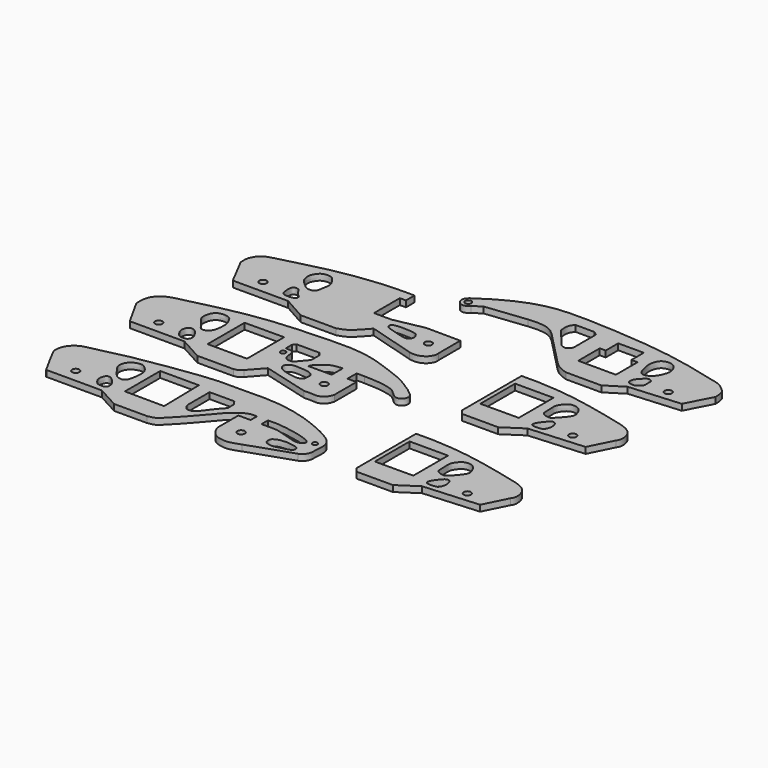
from build123d import *

# Parameters (mm, degrees)
F0_R     = 0.9999424219
F0_R_2   = 1.1619067798
F1_DEPTH = 1.9812
F0_R_3   = 0.8308060467
F0_R_4   = 0.8147235178


with BuildPart() as f1:
    # F0 (on Top) → F1 (new body)
    with BuildSketch(Plane.XY):
        with BuildLine():
            add(Edge.make_bspline(
                [(92.6373976592, 109.385073185), (93.8506829882, 109.514260154), (97.8617190625, 109.7296111324), (100.8245201096, 108.349381474), (102.2005877959, 106.9810635197), (102.7207896113, 106.4595282078)],
                knots=[0, 0, 0, 0, 0.3963056651, 0.7202468719, 1, 1, 1, 1], degree=3))
            Line((102.7207896113, 106.4595282078), (113.6069446802, 95.2593460679))
            add(Edge.make_bspline(
                [(113.6069446802, 95.2593460679), (114.1959506239, 94.7732180593), (115.4335805947, 93.7517570714), (117.1883190486, 93.1612885496), (118.1079521775, 92.851832509)],
                knots=[0, 0, 0, 0, 0.4759144151, 1, 1, 1, 1], degree=3))
            Line((118.1079521775, 92.851832509), (129.517480731, 92.851832509))
            Line((129.517480731, 92.851832509), (135.1699084044, 96.4107662439))
            Line((135.1699084044, 96.4107662439), (151.6038179398, 97.6668670774))
            Line((151.6038179398, 97.6668670774), (155.8954715729, 105.9361547232))
            add(Edge.make_bspline(
                [(74.0399584174, 109.2857420444), (76.6683574206, 111.1142288792), (82.4469864956, 114.7487459632), (92.6384825976, 118.7049376793), (105.3532035624, 118.7382284311), (118.8245314754, 117.9535814722), (129.5683396456, 116.8825044245), (140.4179268185, 114.9478847046), (148.0493221793, 112.7449907537), (152.4759047557, 112.1393790191), (155.2184820052, 109.42390682), (155.6252513119, 108.6856731052), (155.9344983135, 107.034178374), (155.8954715729, 105.9361547232)],
                knots=[0, 0, 0, 0, 0.1062070835, 0.216706254, 0.3370166019, 0.4610864784, 0.5727154102, 0.684951725, 0.7796020002, 0.8509478044, 0.9133513637, 0.9441649832, 1, 1, 1, 1], degree=3))
            add(Edge.make_bspline(
                [(76.8661722541, 106.1455011368), (76.4767540931, 105.6949295799), (75.5693540411, 105.173429691), (74.0305290688, 105.1712269739), (72.7772969879, 106.8209295721), (72.9478700861, 108.323444005), (73.6688638817, 108.9617207668), (74.0399584174, 109.2857420444)],
                knots=[0, 0, 0, 0, 0.2053323332, 0.3957577644, 0.6174964044, 0.8072491366, 1, 1, 1, 1], degree=3))
            Line((76.8661722541, 106.1455011368), (79.5877128839, 107.9249680042))
            Line((79.5877128839, 107.9249680042), (92.6373976592, 109.385073185))
        make_face()
        with Locations((75.0501081347, 107.3810607195)):
            Circle(F0_R, mode=Mode.SUBTRACT)
        with BuildLine():
            Line((111.1994311213, 113.6820688844), (111.1994311213, 104.9940809608))
            ThreePointArc((111.1994311213, 104.9940809608), (110.820249535, 103.8740130699), (109.8386570811, 103.2146140933))
            ThreePointArc((109.8386570811, 103.2146140933), (108.6848353024, 103.3656199395), (107.7451705933, 104.0520146489))
            Line((107.7451705933, 104.0520146489), (102.8254628181, 110.0184619427))
            add(Edge.make_bspline(
                [(102.8254628181, 110.0184619427), (102.7184035469, 110.9860781754), (102.5180994248, 112.7964540318), (103.4420811535, 113.9721593505), (103.8722097874, 114.51946944)],
                knots=[0, 0, 0, 0, 0.5344836153, 1, 1, 1, 1], degree=3))
            Line((103.8722097874, 114.51946944), (109.9433377385, 114.51946944))
            Line((109.9433377385, 114.51946944), (111.1994311213, 113.6820688844))
        make_face(mode=Mode.SUBTRACT)
        with BuildLine():
            add(Edge.make_bspline(
                [(133.808106184, 100.1581847668), (134.0128906608, 100.6970651868), (134.8805983156, 101.6370866874), (135.8978610306, 102.7791740726), (136.7693236063, 103.1761457326), (138.1789696698, 102.5702949466), (137.8037841436, 100.8929058721), (138.1260908221, 99.6397132953), (136.9854410759, 98.8062883978), (136.3780532933, 97.9849215375), (134.6697389092, 98.0480097737), (133.9881418881, 98.3608182851), (133.640328873, 98.9168698557), (133.6396088811, 99.7147922852), (133.808106184, 100.1581847668)],
                knots=[0, 0, 0, 0, 0.1039821478, 0.1986029451, 0.2704362864, 0.3539662427, 0.448945845, 0.5329964625, 0.618081459, 0.6948567241, 0.7910709939, 0.8562842182, 0.9144431662, 1, 1, 1, 1], degree=3))
        make_face(mode=Mode.SUBTRACT)
        with Locations((144.9514329433, 100.5327180028)):
            Circle(F0_R_2, mode=Mode.SUBTRACT)
        Polygon((128.7643164396, 99.6832028031), (116.6050955653, 99.718131125), (116.6050955653, 108.3810031414), (118.5268089175, 108.3810031414), (118.5268089175, 113.4110614657), (126.7727166414, 113.4110614657), (126.7727166414, 108.4159389138), (128.7643164396, 108.4159389138), align=None, mode=Mode.SUBTRACT)
        with BuildLine():
            add(Edge.make_bspline(
                [(132.1343481541, 107.0352382958), (131.9006111479, 107.9938234822), (131.5439128032, 109.7349636351), (132.7146532193, 113.1782412007), (136.5642868648, 113.4330070715), (138.1183785199, 111.1779164524), (138.7230959722, 109.1735167011), (137.2964350753, 105.2994075387), (134.7664086175, 103.8028700609), (132.8774140225, 104.2212893341), (132.3671760138, 106.0803816346), (132.1343481541, 107.0352382958)],
                knots=[0, 0, 0, 0, 0.1133317895, 0.2334654924, 0.3539655525, 0.4599996683, 0.5567006552, 0.6909876329, 0.8033693505, 0.8871090272, 1, 1, 1, 1], degree=3))
        make_face(mode=Mode.SUBTRACT)
    extrude(amount=F1_DEPTH)


with BuildPart() as f1b:
    # F0 (on Top) → F1, piece 2 (new body)
    with BuildSketch(Plane.XY):
        with BuildLine():
            Line((115.9332022071, 84.3491256237), (110.6471419334, 84.3491256237))
            Line((110.6471419334, 84.3491256237), (110.6471419334, 60.3263154626))
            Line((110.6471419334, 60.3263154626), (111.9032353163, 58.8608719409))
            Line((111.9032353163, 58.8608719409), (123.5221102834, 58.8608719409))
            Line((123.5221102834, 58.8608719409), (129.6979039907, 62.9431754351))
            Line((129.6979039907, 62.9431754351), (147.387906909, 64.1992762685))
            Line((147.387906909, 64.1992762685), (151.1562019587, 71.7358440161))
            add(Edge.make_bspline(
                [(147.2832411528, 79.0630578995), (148.0472611122, 78.7700690704), (149.5150612319, 78.207192364), (151.0911580527, 76.7481484904), (151.5160459475, 75.3785381543), (151.8333980856, 74.1578228561), (151.7958935023, 72.7364037265), (151.3636028373, 72.0602456205), (151.1562019587, 71.7358440161)],
                knots=[0, 0, 0, 0, 0.2065230707, 0.3967626554, 0.5527347725, 0.7017188803, 0.8568931246, 1, 1, 1, 1], degree=3))
            Line((147.2832411528, 79.0630578995), (142.7298933268, 80.2144780755))
            Line((142.7298933268, 80.2144780755), (138.4905725718, 81.2088921666))
            Line((138.4905725718, 81.2088921666), (133.6231976748, 82.2556316853))
            Line((133.6231976748, 82.2556316853), (128.0754506588, 83.2500457764))
            Line((128.0754506588, 83.2500457764), (122.580036521, 83.9304253459))
            Line((122.580036521, 83.9304253459), (115.9332022071, 84.3491256237))
        make_face()
        Polygon((124.3595033884, 66.0834163427), (112.0079085231, 66.031076014), (112.0079085231, 80.0574719906), (124.3595033884, 80.0574719906), align=None, mode=Mode.SUBTRACT)
        with BuildLine():
            add(Edge.make_bspline(
                [(129.7235488892, 67.0060813427), (130.0929706254, 67.6167991223), (131.3052300777, 69.0474459876), (131.9173025239, 69.6998177423), (132.9954538238, 69.9036122462), (133.9110600903, 68.835580842), (133.9524661815, 66.3804179026), (133.0974083166, 65.1866451783), (132.5332006512, 64.917259841), (129.9159704936, 64.7024081812), (129.1061553171, 65.4047708277), (129.3499357623, 66.1384751592), (129.4925063981, 66.6241282974), (129.7235488892, 67.0060813427)],
                knots=[0, 0, 0, 0, 0.1288741641, 0.2066233079, 0.2822192242, 0.3708998756, 0.4959652344, 0.588348971, 0.6521526635, 0.7805782187, 0.8559871733, 0.9193999568, 1, 1, 1, 1], degree=3))
        make_face(mode=Mode.SUBTRACT)
        with BuildLine():
            add(Edge.make_bspline(
                [(127.4350136518, 76.2044042349), (127.457103342, 76.8263236062), (127.6478217817, 77.5417924341), (128.5164687457, 78.7994298023), (129.5191049794, 79.8216138606), (131.3403589567, 80.18368758), (133.2784706602, 79.3729666656), (134.0921848248, 77.6867822929), (134.6296777537, 76.2866230878), (134.1620552115, 74.6745813245), (131.1985747815, 71.4513572793), (130.5576161356, 70.9578195535), (128.7874926235, 71.0539206725), (127.5461998859, 72.0370803246), (127.609400901, 72.8602951793), (127.400840538, 75.2422847417), (127.4350136518, 76.2044042349)],
                knots=[0, 0, 0, 0, 0.0647059081, 0.1300898539, 0.1949074201, 0.2671575799, 0.3439628437, 0.4177615903, 0.4819979271, 0.552703419, 0.6658558443, 0.7157128788, 0.785733577, 0.8508674868, 0.8998988963, 1, 1, 1, 1], degree=3))
        make_face(mode=Mode.SUBTRACT)
        with Locations((141.0027593374, 67.0254826546)):
            Circle(F0_R_2, mode=Mode.SUBTRACT)
    extrude(amount=F1_DEPTH)


with BuildPart() as f1c:
    # F0 (on Top) → F1, piece 3 (new body)
    with BuildSketch(Plane.XY):
        with BuildLine():
            Line((114.8867885102, 43.1886227514), (109.6007282366, 43.1886227514))
            Line((109.6007282366, 43.1886227514), (109.6007282366, 19.1658125903))
            Line((109.6007282366, 19.1658125903), (110.8568216194, 17.7003690686))
            Line((110.8568216194, 17.7003690686), (122.4756965865, 17.7003690686))
            Line((122.4756965865, 17.7003690686), (128.6514902939, 21.7826725628))
            Line((128.6514902939, 21.7826725628), (146.3414932121, 23.0387733962))
            Line((146.3414932121, 23.0387733962), (150.1097882618, 30.5753411438))
            add(Edge.make_bspline(
                [(146.2368274559, 37.9025550272), (147.0008474153, 37.6095661981), (148.4686475351, 37.0466894917), (150.0447443559, 35.5876456181), (150.4696322507, 34.218035282), (150.7869843888, 32.9973199838), (150.7494798054, 31.5759008542), (150.3171891405, 30.8997427482), (150.1097882618, 30.5753411438)],
                knots=[0, 0, 0, 0, 0.2065230707, 0.3967626554, 0.5527347725, 0.7017188803, 0.8568931246, 1, 1, 1, 1], degree=3))
            Line((146.2368274559, 37.9025550272), (141.6834796299, 39.0539752032))
            Line((141.6834796299, 39.0539752032), (137.4441588749, 40.0483892943))
            Line((137.4441588749, 40.0483892943), (132.5767839779, 41.095128813))
            Line((132.5767839779, 41.095128813), (127.029036962, 42.0895429041))
            Line((127.029036962, 42.0895429041), (121.5336228241, 42.7699224736))
            Line((121.5336228241, 42.7699224736), (114.8867885102, 43.1886227514))
        make_face()
        Polygon((123.3130896916, 24.9229134704), (110.9614948262, 24.8705731417), (110.9614948262, 38.8969691183), (123.3130896916, 38.8969691183), align=None, mode=Mode.SUBTRACT)
        with BuildLine():
            add(Edge.make_bspline(
                [(128.6771351923, 25.8455784704), (129.0465569285, 26.45629625), (130.2588163809, 27.8869431153), (130.8708888271, 28.53931487), (131.9490401269, 28.7431093739), (132.8646463935, 27.6750779697), (132.9060524846, 25.2199150303), (132.0509946198, 24.0261423061), (131.4867869543, 23.7567569687), (128.8695567968, 23.5419053089), (128.0597416202, 24.2442679554), (128.3035220654, 24.9779722869), (128.4460927013, 25.4636254251), (128.6771351923, 25.8455784704)],
                knots=[0, 0, 0, 0, 0.1288741641, 0.2066233079, 0.2822192242, 0.3708998756, 0.4959652344, 0.588348971, 0.6521526635, 0.7805782187, 0.8559871733, 0.9193999568, 1, 1, 1, 1], degree=3))
        make_face(mode=Mode.SUBTRACT)
        with BuildLine():
            add(Edge.make_bspline(
                [(126.388599955, 35.0439013626), (126.4106896451, 35.6658207339), (126.6014080849, 36.3812895618), (127.4700550489, 37.63892693), (128.4726912826, 38.6611109883), (130.2939452599, 39.0231847077), (132.2320569634, 38.2124637933), (133.045771128, 36.5262794206), (133.5832640569, 35.1261202155), (133.1156415147, 33.5140784522), (130.1521610846, 30.290854407), (129.5112024388, 29.7973166812), (127.7410789266, 29.8934178002), (126.499786189, 30.8765774523), (126.5629872041, 31.699792307), (126.3544268412, 34.0817818694), (126.388599955, 35.0439013626)],
                knots=[0, 0, 0, 0, 0.0647059081, 0.1300898539, 0.1949074201, 0.2671575799, 0.3439628437, 0.4177615903, 0.4819979271, 0.552703419, 0.6658558443, 0.7157128788, 0.785733577, 0.8508674868, 0.8998988963, 1, 1, 1, 1], degree=3))
        make_face(mode=Mode.SUBTRACT)
        with Locations((139.9563456406, 25.8649797823)):
            Circle(F0_R_2, mode=Mode.SUBTRACT)
    extrude(amount=F1_DEPTH)


with BuildPart() as f1d:
    # F0 (on Top) → F1, piece 4 (new body)
    with BuildSketch(Plane.XY):
        with BuildLine():
            add(Edge.make_bspline(
                [(10.2511877194, 54.7010786831), (10.1885472058, 55.6078085486), (10.0634063257, 57.4192396296), (11.0315522121, 60.0980514276), (13.7110567336, 62.5748787848), (20.9450027685, 64.1206470862), (36.0777182281, 67.8237382912), (49.9389217027, 69.0241485853), (60.1127318925, 69.4050048813), (67.9203797094, 69.5966764883), (75.253284317, 68.6136236522), (80.8091623763, 66.4553141295), (86.536928564, 64.6102772662), (91.639480518, 61.6223567758), (94.1730994685, 59.7448464181), (95.4209880099, 58.5264552227), (95.7785835739, 57.3926300647), (95.2858836773, 56.0027292729), (93.5103038001, 55.062094773), (91.8658313439, 56.1781297121), (90.2242519305, 57.9238924502), (88.2894333102, 58.6835115354), (84.5033990987, 59.371056522), (81.5252229304, 59.4684180035), (79.9555182457, 59.5197342336)],
                knots=[0, 0, 0, 0, 0.0353539764, 0.0706288545, 0.1094301878, 0.1667522482, 0.2525432063, 0.3341101081, 0.4021617404, 0.4621480407, 0.5201018122, 0.5724641965, 0.6255654328, 0.6779686741, 0.7159984526, 0.7434137776, 0.7657516418, 0.7908523817, 0.8190853741, 0.8481186673, 0.8811775238, 0.9117718972, 0.9534976917, 1, 1, 1, 1], degree=3))
            Line((10.2511877194, 54.7010786831), (15.0698432699, 46.0607334971))
            Line((15.0698432699, 46.0607334971), (32.6828584075, 46.0607334971))
            Line((32.6828584075, 46.0607334971), (40.0770008564, 41.9898033142))
            Line((40.0770008564, 41.9898033142), (51.7082363367, 41.9898033142))
            add(Edge.make_bspline(
                [(51.7082363367, 41.9898033142), (52.1716499561, 42.0863231902), (53.0954492376, 42.2787322786), (53.7776044589, 42.917612818), (54.1175641119, 43.2360060513)],
                knots=[0, 0, 0, 0, 0.501638861, 1, 1, 1, 1], degree=3))
            Line((54.1175641119, 43.2360060513), (58.1884942949, 47.8054173291))
            Line((58.1884942949, 47.8054173291), (72.976782918, 43.8175685704))
            add(Edge.make_bspline(
                [(72.976782918, 43.8175685704), (73.9205941873, 43.8483268026), (75.6478431466, 43.9046167902), (77.5292542058, 43.5206693465), (79.7490964557, 45.0631650853), (80.114905625, 46.3610402781), (80.2878439426, 46.9746179879)],
                knots=[0, 0, 0, 0, 0.2753526344, 0.5039170082, 0.7654740089, 1, 1, 1, 1], degree=3))
            Line((80.2878439426, 46.9746179879), (80.2878439426, 55.8075346053))
            Line((80.2878439426, 55.8075346053), (77.3800313473, 55.8075346053))
            Line((77.3800313473, 55.8075346053), (77.3800313473, 59.5197342336))
            Line((77.3800313473, 59.5197342336), (79.9555182457, 59.5197342336))
        make_face()
        with Locations((21.2177801877, 50.0485859811)):
            Circle(F0_R_2, mode=Mode.SUBTRACT)
        with BuildLine():
            add(Edge.make_bspline(
                [(28.1900241971, 50.3396131098), (28.1418874287, 50.7897316516), (28.2458661274, 51.6937456673), (28.779500662, 52.4559466692), (29.5855359347, 52.8897329053), (30.9008219465, 52.5518036694), (32.1690783288, 50.9021781984), (32.8302761291, 49.7973346054), (33.0598721504, 48.7285025511), (32.5274265478, 47.5259902771), (31.6513679828, 47.412421202), (30.3253971178, 47.3365040526), (29.5152805601, 47.7526427258), (28.5595300238, 49.0503907138), (28.2384678908, 49.886624563), (28.1900241971, 50.3396131098)],
                knots=[0, 0, 0, 0, 0.0816560918, 0.1481749783, 0.2119149444, 0.2902478703, 0.3915044788, 0.4720308714, 0.5441877262, 0.6197445831, 0.6838877396, 0.7637720049, 0.8300336322, 0.91782326, 1, 1, 1, 1], degree=3))
        make_face(mode=Mode.SUBTRACT)
        Polygon((38.1373949349, 48.5392473638), (38.1373949349, 63.4551420808), (50.8353114128, 63.5105893016), (50.8353114128, 48.5392473638), align=None, mode=Mode.SUBTRACT)
        with BuildLine():
            add(Edge.make_bspline(
                [(31.1046149582, 54.5879974961), (30.5831213902, 55.1990708798), (29.3370128421, 57.0832453489), (27.9180877404, 58.4674051854), (27.7899100127, 60.2383086032), (28.3354189141, 62.4137273852), (29.8617236372, 63.5855549472), (31.6357290698, 63.7701586802), (33.4843642625, 63.3975390788), (34.4067779471, 61.7341209163), (35.093684003, 60.1317637199), (35.0734687261, 57.847540653), (34.6775607267, 55.5435820327), (33.7983579507, 54.3216251415), (33.007463586, 54.0263318415), (31.9115919028, 53.8079788004), (31.4182144586, 54.2205292863), (31.1046149582, 54.5879974961)],
                knots=[0, 0, 0, 0, 0.0883837179, 0.1597210699, 0.2247531518, 0.2995434117, 0.3674408088, 0.4345087108, 0.5016569124, 0.5691498934, 0.6359885738, 0.7124984384, 0.7906869586, 0.8503911008, 0.8962818214, 0.9468505625, 1, 1, 1, 1], degree=3))
        make_face(mode=Mode.SUBTRACT)
        with BuildLine():
            add(Edge.make_bspline(
                [(60.3904537857, 51.4174178243), (60.4647976502, 51.7866614879), (61.0224718758, 52.4917609831), (62.3480923871, 53.1251880767), (64.7459573351, 52.9363219008), (67.2846012408, 52.8459225197), (69.1021157379, 51.7122160145), (69.0006810838, 50.5922695864), (68.9733664145, 48.8880729024), (67.5519785183, 48.0990804085), (64.7612641643, 48.5396852955), (61.9355096386, 49.1087204829), (60.5648786819, 50.1878528387), (60.3174013214, 51.0545881583), (60.3904537857, 51.4174178243)],
                knots=[0, 0, 0, 0, 0.0678416206, 0.1419583412, 0.238570619, 0.3408584957, 0.425941456, 0.4892600322, 0.5676055914, 0.6402476996, 0.7455859407, 0.8533504796, 0.9333368316, 1, 1, 1, 1], degree=3))
        make_face(mode=Mode.SUBTRACT)
        with Locations((55.6960888207, 57.0273287594)):
            Circle(F0_R_3, mode=Mode.SUBTRACT)
        with BuildLine():
            Line((56.3802532852, 59.019189328), (54.938569665, 59.019189328))
            Line((54.938569665, 59.019189328), (54.938569665, 61.4589639008))
            Line((54.938569665, 61.4589639008), (55.6594133377, 62.4570511281))
            Line((55.6594133377, 62.4570511281), (62.9787370563, 62.4570511281))
            Line((62.9787370563, 62.4570511281), (63.9213770628, 61.5144111216))
            Line((63.9213770628, 61.5144111216), (63.9213770628, 58.0765493214))
            Line((63.9213770628, 58.0765493214), (61.2598024309, 54.9159310758))
            add(Edge.make_bspline(
                [(56.3802532852, 59.019189328), (56.6983108257, 58.9046441311), (57.3614030281, 58.6658382009), (57.8977083452, 57.4927669968), (57.7791669405, 56.5280979947), (58.0154056503, 55.5843633676), (58.5147013723, 54.7118781347), (59.5338608939, 54.3324830254), (60.6860268591, 54.3986509826), (61.0818902587, 54.7555366123), (61.2598024309, 54.9159310758)],
                knots=[0, 0, 0, 0, 0.1259348603, 0.2625513098, 0.3863185713, 0.5088554566, 0.6315236102, 0.7601064811, 0.8921850894, 1, 1, 1, 1], degree=3))
        make_face(mode=Mode.SUBTRACT)
        with Locations((74.638389051, 49.8824268579)):
            Circle(F0_R_2, mode=Mode.SUBTRACT)
        with BuildLine():
            Line((72.9596316814, 55.0268292427), (67.0819878578, 55.0268292427))
            add(Edge.make_bspline(
                [(67.0819878578, 55.0268292427), (66.6525059151, 55.0520288932), (65.975270532, 55.09176536), (65.2616203844, 54.8474960388), (65.9793802509, 56.3947591757), (67.0803979064, 57.1887937127), (68.5093315719, 58.4664453348), (70.1957605373, 59.2429108856), (71.8116641915, 59.3857917882), (72.6823806763, 59.4627819955)],
                knots=[0, 0, 0, 0, 0.1304287611, 0.2056686515, 0.3388983056, 0.4866113257, 0.6491037343, 0.8109224135, 1, 1, 1, 1], degree=3))
            Line((72.6823806763, 59.4627819955), (72.9596316814, 59.4627819955))
            Line((72.9596316814, 59.4627819955), (72.9596316814, 55.0268292427))
        make_face(mode=Mode.SUBTRACT)
    extrude(amount=F1_DEPTH)


with BuildPart() as f1e:
    # F0 (on Top) → F1, piece 5 (new body)
    with BuildSketch(Plane.XY):
        with BuildLine():
            add(Edge.make_bspline(
                [(50.7659837604, 8.413544856), (51.5356372976, 8.544567151), (53.1011113064, 8.8100614211), (54.9168641433, 10.5722783815), (59.3090440719, 15.1920062727), (62.6734008004, 19.2504488817), (65.6035086871, 22.785712043), (68.0239932113, 24.493581983), (69.9403015754, 25.5397219177), (71.54707862, 25.6764015302), (72.4382102489, 25.541625917)],
                knots=[0, 0, 0, 0, 0.1012119698, 0.2067760306, 0.3769935582, 0.5371406593, 0.6807363743, 0.7958305868, 0.8937502389, 1, 1, 1, 1], degree=3))
            Line((72.4382102489, 25.541625917), (72.4382102489, 23.0222363025))
            Line((72.4382102489, 23.0222363025), (68.4862211347, 23.0222363025))
            Line((68.4862211347, 23.0222363025), (68.4862211347, 14.5748676732))
            add(Edge.make_bspline(
                [(68.4862211347, 14.5748676732), (68.722135417, 13.9246689472), (69.2131132947, 12.571494449), (71.0762788155, 10.7487419313), (72.9905154757, 10.2137356385), (75.5629871219, 9.9514643491), (77.8141442883, 10.7976243065), (79.0577828884, 11.2650804222)],
                knots=[0, 0, 0, 0, 0.1835424468, 0.3819831512, 0.5573616202, 0.7554670179, 1, 1, 1, 1], degree=3))
            Line((79.0577828884, 11.2650804222), (93.2355299592, 16.1062609404))
            add(Edge.make_bspline(
                [(93.2355299592, 16.1062609404), (93.6956378834, 16.339083925), (94.650523913, 16.8222736387), (95.5468939549, 18.5865830999), (95.441522715, 20.8180538865), (95.7376990246, 23.1769347089), (95.2001135293, 25.7550071908), (91.7100812756, 28.3936557953), (84.009048225, 31.7940503467), (77.0293798115, 33.7376529022), (70.1723401001, 34.6472598307), (65.0663138754, 34.6554284886), (62.1534734964, 34.5418900251)],
                knots=[0, 0, 0, 0, 0.0611204293, 0.1279342428, 0.2015789909, 0.2775876701, 0.3534062524, 0.4533706393, 0.5973189935, 0.7315022656, 0.8594799803, 1, 1, 1, 1], degree=3))
            add(Edge.make_bspline(
                [(62.1534734964, 34.5418900251), (59.7681987941, 34.4015790884), (53.7186110363, 34.9883126732), (40.6892646569, 33.1256597899), (34.688727251, 32.2532068595), (25.389271145, 30.6537777366), (20.6549757884, 29.289499996), (14.9352144578, 28.2420878805), (12.9966884953, 27.425120739), (11.1525604593, 25.8145117501), (10.2922552488, 23.9539754022), (10.093330219, 21.8844589243), (10.5195044175, 20.6689001711), (14.7065926071, 13.0329289983), (15.240838969, 12.0696228105), (15.27614519, 12.2388377786)],
                knots=[0, 0, 0, 0, 0.1059351573, 0.2369533743, 0.3303479848, 0.4393392191, 0.5239174212, 0.6094359237, 0.662454029, 0.7175398342, 0.7702587579, 0.8195273399, 0.8648375917, 0.9743956831, 1, 1, 1, 1], degree=3))
            Line((15.27614519, 12.2388377786), (33.100385802, 12.2388377786))
            Line((33.100385802, 12.2388377786), (40.1469767094, 8.413544856))
            Line((40.1469767094, 8.413544856), (50.7659837604, 8.413544856))
        make_face()
        with Locations((21.3422439992, 16.4616238326)):
            Circle(F0_R_2, mode=Mode.SUBTRACT)
        with BuildLine():
            add(Edge.make_bspline(
                [(28.6197662354, 16.3079369813), (28.4121766889, 16.9181629522), (28.5488951306, 17.9461637019), (29.0447966153, 19.2088387754), (30.6211937838, 19.4199721845), (32.7530276112, 17.0606306584), (33.065790324, 15.8986482528), (33.037992763, 14.6775549159), (32.0620660284, 14.0803250217), (30.7548133805, 14.2076026066), (29.8665400572, 14.3376674594), (28.8602271359, 15.6010830526), (28.6197662354, 16.3079369813)],
                knots=[0, 0, 0, 0, 0.1082800281, 0.1994111974, 0.2932567255, 0.4384275194, 0.532273059, 0.6182538501, 0.7021918129, 0.795965068, 0.8745740645, 1, 1, 1, 1], degree=3))
        make_face(mode=Mode.SUBTRACT)
        with BuildLine():
            add(Edge.make_bspline(
                [(31.3443802297, 20.6393748522), (30.8287497632, 21.0293675038), (29.7714982757, 22.3601827494), (28.5859065971, 23.8586606766), (27.5423330727, 25.859199015), (28.7243237066, 28.4583813018), (30.498700235, 29.3711332684), (32.3862072276, 29.7404371066), (33.7948859903, 28.6980268393), (35.4296179647, 26.8545894135), (35.1948159714, 23.5414169582), (34.6485970673, 20.893217747), (33.5683357363, 20.0188019383), (32.4185438147, 20.1103228456), (31.7220279366, 20.3537442695), (31.3443802297, 20.6393748522)],
                knots=[0, 0, 0, 0, 0.0830440791, 0.1608783133, 0.2402371625, 0.3284895621, 0.4059161783, 0.4789467527, 0.5492348575, 0.6328604, 0.7326488838, 0.8227515604, 0.8828110483, 0.939178524, 1, 1, 1, 1], degree=3))
        make_face(mode=Mode.SUBTRACT)
        Polygon((50.6996847689, 15.3405871242), (37.9875525832, 15.4236676171), (37.9875525832, 29.6719316393), (50.4088811576, 29.6719316393), align=None, mode=Mode.SUBTRACT)
        with Locations((74.7628528625, 16.2954647094)):
            Circle(F0_R_2, mode=Mode.SUBTRACT)
        with BuildLine():
            Line((63.8191064677, 26.9691285949), (63.8687834144, 24.5209559798))
            add(Edge.make_bspline(
                [(54.895516485, 19.6607615799), (54.9766389757, 19.3717877981), (55.155612417, 18.7342502707), (56.0496439229, 17.4690646173), (57.1772674825, 17.5469384855), (58.5277219659, 17.6225922293), (60.8377757119, 20.9250111707), (62.4116567652, 22.9874388776), (63.4093183843, 24.03740331), (63.8687834144, 24.5209559798)],
                knots=[0, 0, 0, 0, 0.1056293059, 0.2330406797, 0.3404125691, 0.4582272659, 0.6687187201, 0.8474310725, 1, 1, 1, 1], degree=3))
            Line((54.895516485, 19.6607615799), (54.895516485, 28.4257270396))
            Line((54.895516485, 28.4257270396), (62.8717541695, 28.4257270396))
            Line((62.8717541695, 28.4257270396), (63.8191064677, 26.9691285949))
        make_face(mode=Mode.SUBTRACT)
        with BuildLine():
            add(Edge.make_bspline(
                [(82.9109698534, 17.8846549243), (83.1374935941, 18.2942782522), (84.407455222, 19.025587501), (86.271707665, 19.2408874957), (87.6235682953, 19.2801474148), (89.4702513053, 18.9235116802), (90.5146648923, 18.724576778), (91.2235842211, 18.0888683076), (91.1819361211, 17.2201238915), (90.5097423585, 16.4671465616), (87.6908034552, 15.8948762321), (86.2684875775, 15.4587220598), (85.4933308783, 15.3066778135), (84.4277422548, 15.5294543244), (83.6500551141, 15.6235515914), (82.8474665897, 16.2602596623), (82.8243018779, 16.9981731356), (82.7504250058, 17.5943413591), (82.9109698534, 17.8846549243)],
                knots=[0, 0, 0, 0, 0.0763146829, 0.1553164138, 0.2225679206, 0.3003789243, 0.3597741885, 0.412130657, 0.4613536314, 0.5158479058, 0.6128400034, 0.6836576469, 0.7330979492, 0.7916342606, 0.8432478221, 0.8978226534, 0.9459132668, 1, 1, 1, 1], degree=3))
        make_face(mode=Mode.SUBTRACT)
        with BuildLine():
            Line((75.9455934167, 22.9728352278), (75.9455934167, 25.5910269916))
            add(Edge.make_bspline(
                [(75.9455934167, 25.5910269916), (77.0909136489, 25.624426498), (79.3946798415, 25.6916089981), (82.7725656805, 25.1705829905), (86.7471167882, 24.4478080568), (89.0707197609, 23.6368304916), (90.7334891786, 22.9224481841), (91.0748253101, 22.0864444752), (90.6765535467, 21.2875075023), (89.641600971, 20.8863114731), (88.2903901469, 20.7315317881), (85.7835979876, 21.4493932408), (83.2788727691, 22.2837913774), (81.2313780189, 22.9234360158), (80.1939815283, 22.9728352278)],
                knots=[0, 0, 0, 0, 0.1051446962, 0.2114835089, 0.3258151081, 0.4166934815, 0.490501279, 0.539902137, 0.5899809689, 0.64801989, 0.7138824798, 0.8046494289, 0.8990845149, 1, 1, 1, 1], degree=3))
            Line((80.1939815283, 22.9728352278), (75.9455934167, 22.9728352278))
        make_face(mode=Mode.SUBTRACT)
        with Locations((93.0873304605, 23.1210347265)):
            Circle(F0_R_4, mode=Mode.SUBTRACT)
    extrude(amount=F1_DEPTH)


with BuildPart() as f1f:
    # F0 (on Top) → F1, piece 6 (new body)
    with BuildSketch(Plane.XY):
        with BuildLine():
            add(Edge.make_bspline(
                [(16.7790167034, 88.5674729943), (16.7095565698, 89.4155118469), (16.6156877915, 90.9538544647), (17.3126975106, 92.52171991), (18.2067086414, 93.8779596081), (19.5603201995, 95.0596196088), (24.8020678798, 96.2616555123), (33.6363526452, 98.6105889764), (40.0088121256, 99.9855596103), (46.4102648233, 100.9851913579), (53.94805043, 101.6882620496), (57.1489006903, 101.7341817766), (58.5493035614, 101.7542034388)],
                knots=[0, 0, 0, 0, 0.0747331486, 0.1371738577, 0.1972405273, 0.2585426802, 0.3686073744, 0.5170861682, 0.6410266407, 0.7642717623, 0.8971591919, 1, 1, 1, 1], degree=3))
            Line((16.7790167034, 88.5674729943), (21.4474964887, 79.5581266284))
            Line((21.4474964887, 79.5581266284), (39.3023826182, 79.5581266284))
            Line((39.3023826182, 79.5581266284), (46.5917624533, 75.4629671574))
            Line((46.5917624533, 75.4629671574), (57.9763017595, 75.4629671574))
            add(Edge.make_bspline(
                [(57.9763017595, 75.4629671574), (59.0488149198, 75.789461715), (61.1015420357, 76.5291936676), (63.0928733028, 78.5635822626), (64.6529688785, 80.3285891584), (65.4827579856, 81.2606140971)],
                knots=[0, 0, 0, 0, 0.3351446128, 0.6458125626, 1, 1, 1, 1], degree=3))
            Line((65.4827579856, 81.2606140971), (80.576838161, 76.8546611071))
            add(Edge.make_bspline(
                [(86.6168960929, 80.922074616), (86.6636669431, 80.5768663021), (86.7797278157, 79.7280706605), (85.9479388985, 78.4236078351), (85.4033286927, 77.7788361621), (84.7190940797, 77.3236881421), (83.6788125172, 76.8012888972), (82.0537499415, 76.5718729172), (81.0619695979, 76.7617167696), (80.576838161, 76.8546611071)],
                knots=[0, 0, 0, 0, 0.1401248711, 0.2996883082, 0.4194333067, 0.5342415767, 0.6741850134, 0.8401492745, 1, 1, 1, 1], degree=3))
            Line((86.6168960929, 80.922074616), (86.6168960929, 89.7285789251))
            Line((86.6168960929, 89.7285789251), (75.5454748869, 89.7893831134))
            Line((75.5454748869, 89.7893831134), (65.9758741847, 87.8877341747))
            Line((65.9758741847, 87.8877341747), (60.2673254907, 87.8877341747))
            Line((60.2673254907, 87.8877341747), (60.2673254907, 98.3181521297))
            Line((60.2673254907, 98.3181521297), (62.230784446, 98.3181521297))
            Line((62.230784446, 98.3181521297), (62.230784446, 101.7542034388))
            Line((62.230784446, 101.7542034388), (58.5493035614, 101.7542034388))
        make_face()
        with Locations((27.8769358993, 83.6981497705)):
            Circle(F0_R_2, mode=Mode.SUBTRACT)
        with BuildLine():
            add(Edge.make_bspline(
                [(35.3747531772, 83.2561552525), (35.2844094728, 83.8439173343), (35.2260646913, 85.1319485103), (35.5715445959, 86.2987545288), (36.7525745517, 86.4240163201), (37.8282913303, 85.9151865759), (38.3073865875, 84.5006398108), (39.1580189809, 83.7240419525), (40.0177873949, 83.0440673282), (39.9066744615, 82.9100923098), (40.194070175, 81.9189656349), (38.6253216634, 81.4729562468), (36.397935266, 81.4599009023), (35.6401872183, 82.1156606703), (35.4449372227, 82.7995487738), (35.3747531772, 83.2561552525)],
                knots=[0, 0, 0, 0, 0.1012873746, 0.176870976, 0.2501116884, 0.3274241722, 0.4141177351, 0.4966711754, 0.5677943269, 0.5927236395, 0.6562814799, 0.7429381718, 0.8530420375, 0.921314299, 1, 1, 1, 1], degree=3))
        make_face(mode=Mode.SUBTRACT)
        with BuildLine():
            add(Edge.make_bspline(
                [(67.9237544537, 85.6860876083), (68.964381257, 86.2772685642), (74.7275345427, 86.1125504992), (75.9151542231, 85.3342575829), (76.6288493517, 83.9583182127), (76.1745230628, 82.793829324), (75.320626052, 82.1365738901), (73.9039699598, 82.1643539468), (69.9305995685, 83.4455072323), (67.7702521613, 83.96508189), (67.5415446097, 84.8739777008), (67.543452509, 85.470037756), (67.9237544537, 85.6860876083)],
                knots=[0, 0, 0, 0, 0.1902375862, 0.2825191604, 0.3676716772, 0.4471884864, 0.5193313221, 0.6047659133, 0.7587631665, 0.8662447668, 0.9304767821, 1, 1, 1, 1], degree=3))
        make_face(mode=Mode.SUBTRACT)
        with Locations((81.2975447625, 83.5319906473)):
            Circle(F0_R_2, mode=Mode.SUBTRACT)
        with BuildLine():
            add(Edge.make_bspline(
                [(38.6179499328, 87.9472121596), (37.9177776019, 88.2384277574), (36.65347887, 89.4801798944), (35.1792329322, 90.7641587692), (34.7199560954, 92.5805705766), (34.7513274232, 94.164675162), (35.7609965958, 95.7153723238), (36.7056868495, 96.6205360307), (39.4875879458, 96.9962540818), (40.7113711885, 95.4898827433), (41.6977287125, 94.1390054785), (42.1888367756, 92.6131458272), (41.7518224395, 90.8232957006), (41.589355538, 88.738879697), (40.7900360827, 87.9598742146), (40.111314914, 87.7124266634), (39.1654659017, 87.7194893789), (38.6179499328, 87.9472121596)],
                knots=[0, 0, 0, 0, 0.0814973463, 0.1541018392, 0.2227447183, 0.2875615734, 0.3558100797, 0.4152959191, 0.4970808888, 0.566707378, 0.6335766442, 0.6970840552, 0.7678249687, 0.842247628, 0.8936532536, 0.9362712628, 1, 1, 1, 1], degree=3))
        make_face(mode=Mode.SUBTRACT)
    extrude(amount=F1_DEPTH)


solid = Compound([f1.part, f1b.part, f1c.part, f1d.part, f1e.part, f1f.part])
